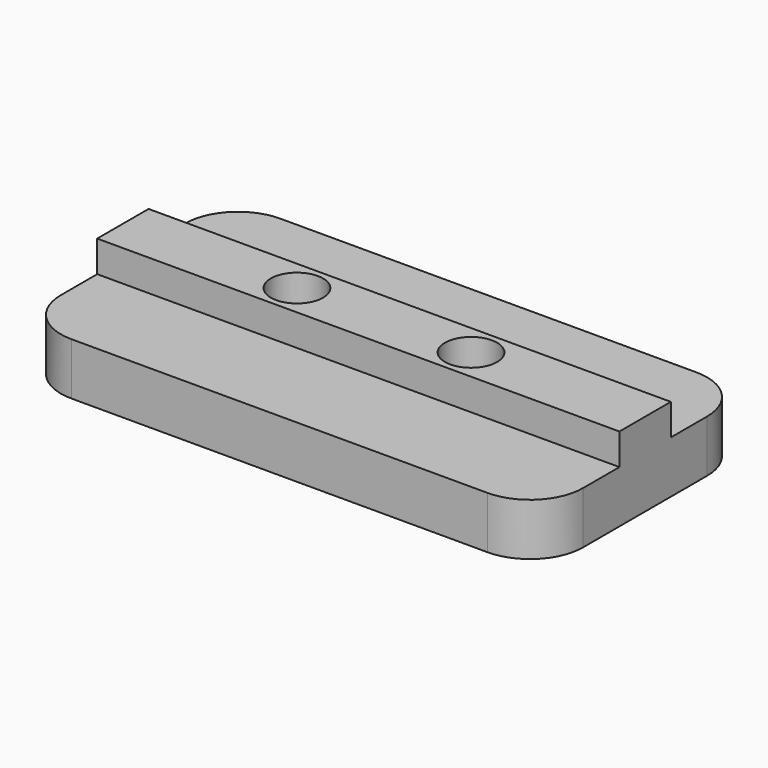
from build123d import *

# Parameters (mm, degrees)
F1_DEPTH = 50
F2_R     = 5.08
F4_D     = 5


with BuildPart() as f1:
    # F0 (on Right) → F1 (new body)
    with BuildSketch(Plane.YZ):
        Polygon((1.439528, 14.019234), (1.439528, 11.019234), (-7.985472, 11.019234), (-7.985472, 6.019234), (17.014528, 6.019234), (17.014528, 11.019234), (7.589528, 11.019234), (7.589528, 14.019234), align=None)
    extrude(amount=F1_DEPTH)

    # F2
    f2_edges = [f1.edges().sort_by_distance(p)[0] for p in [
        (50, 17.014528, 8.519234),
        (50, -7.985472, 8.519234),
        (0, 17.014528, 8.519234),
        (0, -7.985472, 8.519234),
    ]]
    fillet(f2_edges, radius=F2_R)

    # F4 (through all)
    with Locations(Plane.XY.offset(14.019234)):
        with Locations((16.666667, 4.514528), (33.333333, 4.514528)):
            Hole(F4_D / 2)


solid = f1.part
